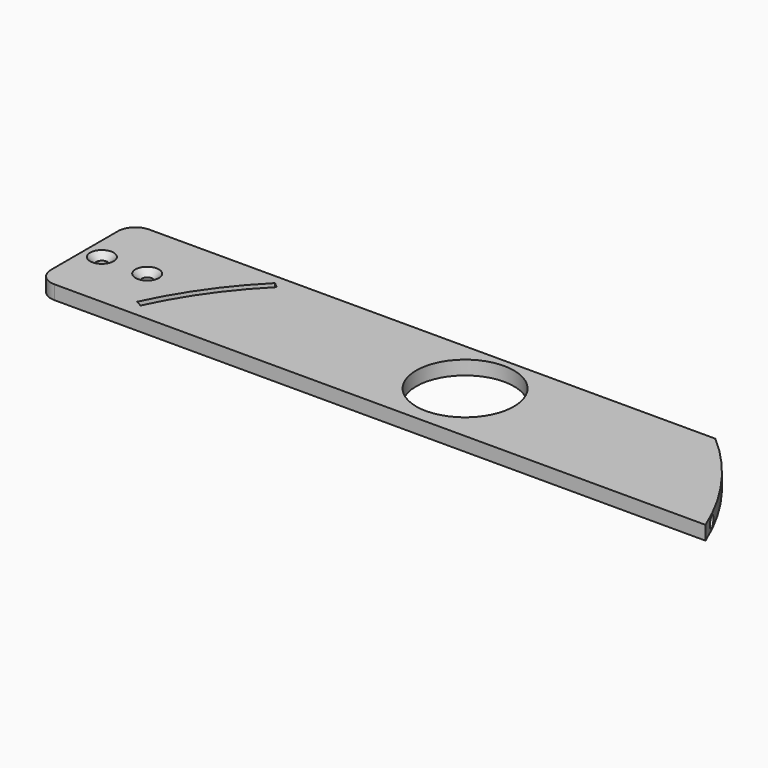
from build123d import *

# Parameters (mm, degrees)
F3_DEPTH        = 4
F4_DEPTH        = 4
F7_D            = 3.2
F7_DEPTH        = 45
F7_TIP          = 0.9613769904
F8_D            = 28
F10_D           = 3.2
F10_DEPTH       = 60
F10_CSINK_D     = 6.72
F10_CSINK_ANGLE = 90
F10_TIP         = 0.9613769904
F12_DEPTH       = 4.0010001
F13_R           = 5


with BuildPart() as f3:
    # F0 (on Top) → F3 (new body)
    with BuildSketch(Plane.XY):
        with BuildLine():
            Line((-83.330666624, 34), (83.330666624, 34))
            ThreePointArc((83.330666624, 34), (73.1470337796, 52.4357840529), (58.9576118919, 68))
            Line((58.9576118919, 68), (-58.9576118919, 68))
            Line((-58.9576118919, 68), (-108.330666624, 68))
            Line((-108.330666624, 68), (-108.330666624, 34))
            Line((-108.330666624, 34), (-83.330666624, 34))
        make_face()
    extrude(amount=F3_DEPTH)

    # F0 (on Top) → F4 (join)
    with BuildSketch(Plane.XY):
        with BuildLine():
            Line((-83.330666624, 34), (83.330666624, 34))
            ThreePointArc((83.330666624, 34), (73.1470337796, 52.4357840529), (58.9576118919, 68))
            Line((58.9576118919, 68), (-58.9576118919, 68))
            Line((-58.9576118919, 68), (-108.330666624, 68))
            Line((-108.330666624, 68), (-108.330666624, 34))
            Line((-108.330666624, 34), (-83.330666624, 34))
        make_face()
    extrude(amount=F4_DEPTH)

    # F7
    with Locations(Plane.YZ.offset(83.3)):
        with Locations((63, 2), (39, 2)):
            Hole(F7_D / 2, depth=F7_DEPTH)
            with Locations((0, 0, -(F7_DEPTH + F7_TIP / 2))):  # 118° drill point
                Cone(0, F7_D / 2, F7_TIP, mode=Mode.SUBTRACT)

    # F8 (through all)
    with Locations(Plane(origin=(0, 0, 0), x_dir=(1, 0, 0), z_dir=(0, 0, -1))):
        with Locations((0, -52)):
            Hole(F8_D / 2)

    # F10
    with Locations(Plane.XY.offset(4)):
        with Locations((-103.330666624, 51), (-90.330666624, 51)):
            CounterSinkHole(F10_D / 2, F10_CSINK_D / 2, depth=F10_DEPTH, counter_sink_angle=F10_CSINK_ANGLE)
            with Locations((0, 0, -(F10_DEPTH + F10_TIP / 2))):  # 118° drill point
                Cone(0, F10_D / 2, F10_TIP, mode=Mode.SUBTRACT)

    # F11 (on face) → F12 (cut, through all)
    with BuildSketch(Plane.XY.offset(4)):
        with BuildLine():
            ThreePointArc((-81.8600177132, 38), (-73.8985762248, 51.8079427496), (-63.6322441848, 64))
            Line((-63.6322441848, 64), (-65.1300137514, 65.3254004397))
            ThreePointArc((-65.1300137514, 65.3254004397), (-75.5329519196, 52.9537515968), (-83.6166513022, 38.9561581637))
            Line((-83.6166513022, 38.9561581637), (-81.8600177132, 38))
        make_face()
    extrude(amount=-F12_DEPTH, mode=Mode.SUBTRACT)

    # F13
    f13_edges = [f3.edges().sort_by_distance(p)[0] for p in [
        (-108.330667, 34, 2),
        (-108.330667, 68, 2),
    ]]
    fillet(f13_edges, radius=F13_R)


solid = f3.part
